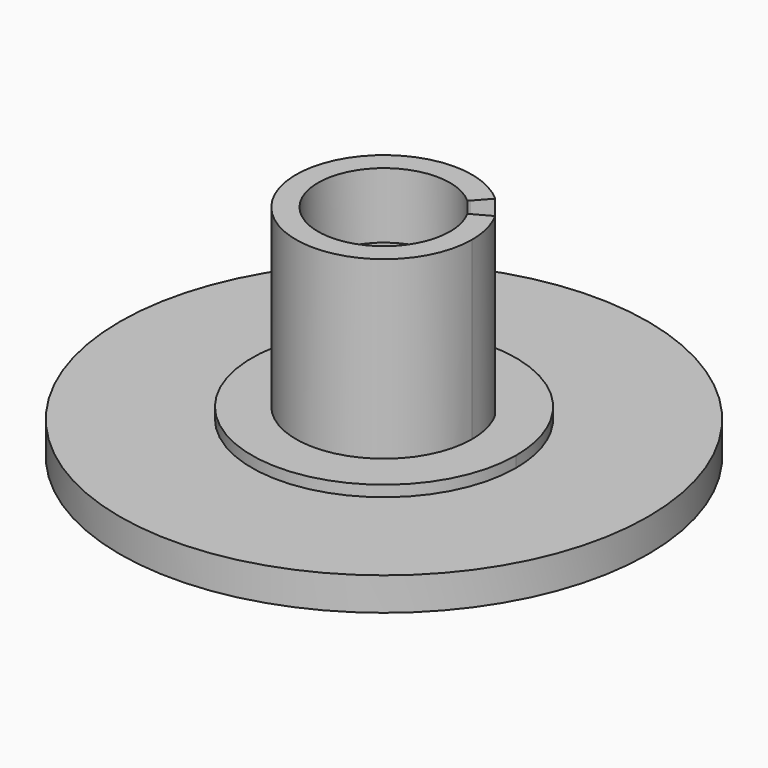
from build123d import *

# Parameters (mm, degrees)
F0_R     = 12
F1_DEPTH = 1.5
F2_DEPTH = 2
F3_DEPTH = 9.98
F4_DEPTH = 1


with BuildPart() as f1:
    # F0 (on Top) → F1 (new body)
    with BuildSketch(Plane.XY):
        Circle(F0_R)
        with BuildLine():
            ThreePointArc((4.0121757808, 4.461215698), (4.6995946202, 3.7301220363), (5.2555497929, 2.8946841579))
            ThreePointArc((5.2555497929, 2.8946841579), (5.810907793, 1.4944399022), (6, 0))
            ThreePointArc((6, 0), (-5.4805590356, -2.4420222476), (4.0121757808, 4.461215698))
        make_face(mode=Mode.SUBTRACT)
        with BuildLine():
            ThreePointArc((2.6747838539, 2.9741437986), (3.1330630801, 2.4867480242), (3.503699862, 1.9297894386))
            Line((3.503699862, 1.9297894386), (5.2555497929, 2.8946841579))
            ThreePointArc((5.2555497929, 2.8946841579), (4.6995946202, 3.7301220363), (4.0121757808, 4.461215698))
            Line((4.0121757808, 4.461215698), (2.6747838539, 2.9741437986))
        make_face()
        with BuildLine():
            Line((5.2555497929, 2.8946841579), (3.503699862, 1.9297894386))
            ThreePointArc((3.503699862, 1.9297894386), (3.8739385287, 0.9962932681), (4, 0))
            ThreePointArc((4, 0), (-3.6537060237, -1.6280148317), (2.6747838539, 2.9741437986))
            Line((2.6747838539, 2.9741437986), (4.0121757808, 4.461215698))
            ThreePointArc((4.0121757808, 4.461215698), (-5.4805590356, -2.4420222476), (6, 0))
            ThreePointArc((6, 0), (5.810907793, 1.4944399022), (5.2555497929, 2.8946841579))
        make_face()
        with BuildLine():
            ThreePointArc((2.0060878904, 2.230607849), (2.3497973101, 1.8650610182), (2.6277748965, 1.447342079))
            Line((2.6277748965, 1.447342079), (2.715367393, 1.4955868149))
            ThreePointArc((2.715367393, 1.4955868149), (2.4281238871, 1.9272297188), (2.0729574868, 2.304961444))
            Line((2.0729574868, 2.304961444), (2.0060878904, 2.230607849))
        make_face()
        with BuildLine():
            ThreePointArc((2.6277748965, 1.447342079), (2.9054538965, 0.7472199511), (3, 0))
            ThreePointArc((3, 0), (-2.7402795178, -1.2210111238), (2.0060878904, 2.230607849))
            Line((2.0060878904, 2.230607849), (2.0729574868, 2.304961444))
            ThreePointArc((2.0729574868, 2.304961444), (-2.8316221684, -1.2617114946), (3.1, 0))
            ThreePointArc((3.1, 0), (3.0023023597, 0.7721272828), (2.715367393, 1.4955868149))
            Line((2.715367393, 1.4955868149), (2.6277748965, 1.447342079))
        make_face()
        with BuildLine():
            Line((0, 0), (2.6277748965, 1.447342079))
            ThreePointArc((2.6277748965, 1.447342079), (2.3497973101, 1.8650610182), (2.0060878904, 2.230607849))
            Line((2.0060878904, 2.230607849), (0, 0))
        make_face()
        with BuildLine():
            ThreePointArc((2.0060878904, 2.230607849), (-2.7402795178, -1.2210111238), (3, 0))
            ThreePointArc((3, 0), (2.9054538965, 0.7472199511), (2.6277748965, 1.447342079))
            Line((2.6277748965, 1.447342079), (0, 0))
            Line((0, 0), (2.0060878904, 2.230607849))
        make_face()
        with BuildLine():
            Line((3.503699862, 1.9297894386), (2.715367393, 1.4955868149))
            ThreePointArc((2.715367393, 1.4955868149), (3.0023023597, 0.7721272828), (3.1, 0))
            ThreePointArc((3.1, 0), (-2.8316221684, -1.2617114946), (2.0729574868, 2.304961444))
            Line((2.0729574868, 2.304961444), (2.6747838539, 2.9741437986))
            ThreePointArc((2.6747838539, 2.9741437986), (-3.6537060237, -1.6280148317), (4, 0))
            ThreePointArc((4, 0), (3.8739385287, 0.9962932681), (3.503699862, 1.9297894386))
        make_face()
        with BuildLine():
            ThreePointArc((2.0729574868, 2.304961444), (2.4281238871, 1.9272297188), (2.715367393, 1.4955868149))
            Line((2.715367393, 1.4955868149), (3.503699862, 1.9297894386))
            ThreePointArc((3.503699862, 1.9297894386), (3.1330630801, 2.4867480242), (2.6747838539, 2.9741437986))
            Line((2.6747838539, 2.9741437986), (2.0729574868, 2.304961444))
        make_face()
    extrude(amount=F1_DEPTH)



with BuildPart() as f2:
    # F0 (on Top) → F2 (new body)
    with BuildSketch(Plane.XY):
        with BuildLine():
            ThreePointArc((2.6747838539, 2.9741437986), (3.1330630801, 2.4867480242), (3.503699862, 1.9297894386))
            Line((3.503699862, 1.9297894386), (5.2555497929, 2.8946841579))
            ThreePointArc((5.2555497929, 2.8946841579), (4.6995946202, 3.7301220363), (4.0121757808, 4.461215698))
            Line((4.0121757808, 4.461215698), (2.6747838539, 2.9741437986))
        make_face()
        with BuildLine():
            Line((5.2555497929, 2.8946841579), (3.503699862, 1.9297894386))
            ThreePointArc((3.503699862, 1.9297894386), (3.8739385287, 0.9962932681), (4, 0))
            ThreePointArc((4, 0), (-3.6537060237, -1.6280148317), (2.6747838539, 2.9741437986))
            Line((2.6747838539, 2.9741437986), (4.0121757808, 4.461215698))
            ThreePointArc((4.0121757808, 4.461215698), (-5.4805590356, -2.4420222476), (6, 0))
            ThreePointArc((6, 0), (5.810907793, 1.4944399022), (5.2555497929, 2.8946841579))
        make_face()
        with BuildLine():
            Line((3.503699862, 1.9297894386), (2.715367393, 1.4955868149))
            ThreePointArc((2.715367393, 1.4955868149), (3.0023023597, 0.7721272828), (3.1, 0))
            ThreePointArc((3.1, 0), (-2.8316221684, -1.2617114946), (2.0729574868, 2.304961444))
            Line((2.0729574868, 2.304961444), (2.6747838539, 2.9741437986))
            ThreePointArc((2.6747838539, 2.9741437986), (-3.6537060237, -1.6280148317), (4, 0))
            ThreePointArc((4, 0), (3.8739385287, 0.9962932681), (3.503699862, 1.9297894386))
        make_face()
        with BuildLine():
            ThreePointArc((2.0729574868, 2.304961444), (2.4281238871, 1.9272297188), (2.715367393, 1.4955868149))
            Line((2.715367393, 1.4955868149), (3.503699862, 1.9297894386))
            ThreePointArc((3.503699862, 1.9297894386), (3.1330630801, 2.4867480242), (2.6747838539, 2.9741437986))
            Line((2.6747838539, 2.9741437986), (2.0729574868, 2.304961444))
        make_face()
    extrude(amount=F2_DEPTH)


with BuildPart() as f1_1:
    add(f1.part)

    add(f2.part)  # F3 merges F2
    # F0 (on Top) → F3 (join)
    with BuildSketch(Plane.XY):
        with BuildLine():
            ThreePointArc((2.6277748965, 1.447342079), (2.9054538965, 0.7472199511), (3, 0))
            ThreePointArc((3, 0), (-2.7402795178, -1.2210111238), (2.0060878904, 2.230607849))
            Line((2.0060878904, 2.230607849), (2.0729574868, 2.304961444))
            ThreePointArc((2.0729574868, 2.304961444), (-2.8316221684, -1.2617114946), (3.1, 0))
            ThreePointArc((3.1, 0), (3.0023023597, 0.7721272828), (2.715367393, 1.4955868149))
            Line((2.715367393, 1.4955868149), (2.6277748965, 1.447342079))
        make_face()
        with BuildLine():
            Line((3.503699862, 1.9297894386), (2.715367393, 1.4955868149))
            ThreePointArc((2.715367393, 1.4955868149), (3.0023023597, 0.7721272828), (3.1, 0))
            ThreePointArc((3.1, 0), (-2.8316221684, -1.2617114946), (2.0729574868, 2.304961444))
            Line((2.0729574868, 2.304961444), (2.6747838539, 2.9741437986))
            ThreePointArc((2.6747838539, 2.9741437986), (-3.6537060237, -1.6280148317), (4, 0))
            ThreePointArc((4, 0), (3.8739385287, 0.9962932681), (3.503699862, 1.9297894386))
        make_face()
    extrude(amount=F3_DEPTH)


with BuildPart() as f4:
    # F0 (on Top) → F4 (new body)
    with BuildSketch(Plane.XY):
        with BuildLine():
            ThreePointArc((2.6277748965, 1.447342079), (2.9054538965, 0.7472199511), (3, 0))
            ThreePointArc((3, 0), (-2.7402795178, -1.2210111238), (2.0060878904, 2.230607849))
            Line((2.0060878904, 2.230607849), (2.0729574868, 2.304961444))
            ThreePointArc((2.0729574868, 2.304961444), (-2.8316221684, -1.2617114946), (3.1, 0))
            ThreePointArc((3.1, 0), (3.0023023597, 0.7721272828), (2.715367393, 1.4955868149))
            Line((2.715367393, 1.4955868149), (2.6277748965, 1.447342079))
        make_face()
    extrude(amount=F4_DEPTH)


with BuildPart() as f4_1:
    # F5: moved
    add(f4.part.moved(Location((0, 0, 6))))


with BuildPart() as f1_2:
    add(f1_1.part)

    # F6: cut F4
    add(f4_1.part, mode=Mode.SUBTRACT)


solid = f1_2.part
